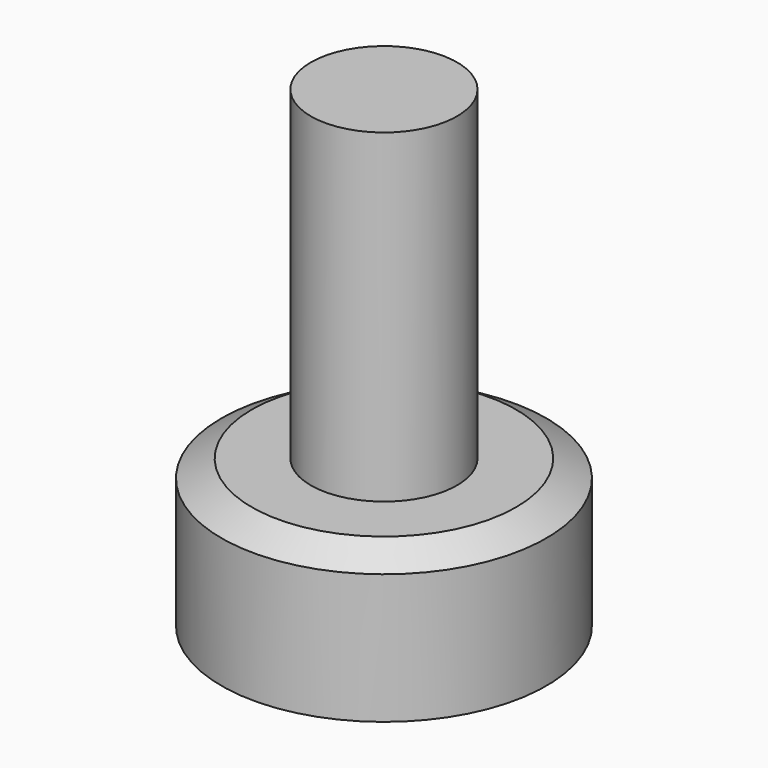
from build123d import *

# Parameters (mm, degrees)
F0_W   = 4.5
F0_H   = 20
F0_H_2 = 3
F0_H_3 = 1.0746234533


with BuildPart() as f1:
    # F0 (on Front) → F1 (revolve)
    with BuildSketch(Plane.XZ):
        with Locations((-22.8013077103, 19.0746234533)):
            Rectangle(F0_W, F0_H)
        Polygon((-25.0513077103, 8), (-30.5513077103, 8), (-30.5513077103, 0), (-25.0513077103, 0), (-25.0513077103, 5), align=None)
        Polygon((-28.6900052902, 9.0746234533), (-30.5513077103, 8), (-25.0513077103, 8), (-25.0513077103, 9.0746234533), align=None)
        with Locations((-22.8013077103, 6.5)):
            Rectangle(F0_W, F0_H_2)
        with Locations((-22.8013077103, 8.5373117267)):
            Rectangle(F0_W, F0_H_3)
    revolve(axis=Axis((-20.5513077103, 0, 19.0746234533), (0, 0, 1)))


solid = f1.part
